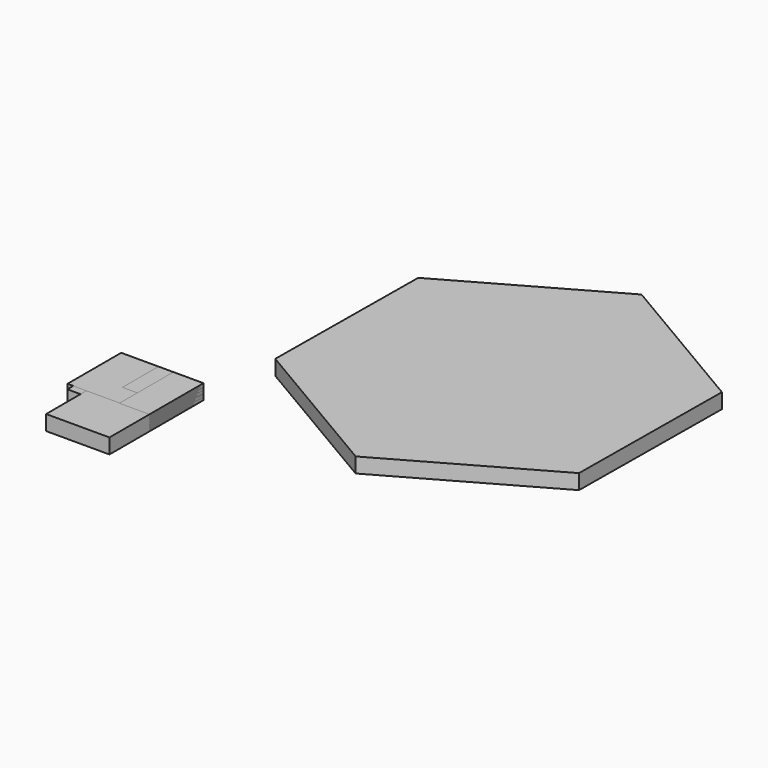
from build123d import *

# Parameters (mm, degrees)
SKETCH008_W  = 50.923298
SKETCH008_H  = 49.592381
PAD008_DEPTH = 10
SKETCH_W     = 34.929359
SKETCH_H     = 20.486658
PAD_DEPTH    = 10
SKETCH012_W  = 29.960587
SKETCH012_H  = 30.027189
PAD012_DEPTH = 10
SKETCH011_W  = 54.766457
SKETCH011_H  = 44.701084
PAD011_DEPTH = 10
SKETCH010_W  = 49.87516
SKETCH010_H  = 40.159164
PAD010_DEPTH = 10
SKETCH009_W  = 29.960587
SKETCH009_H  = 30.027189
PAD009_DEPTH = 10
SKETCH006_W  = 49.87516
SKETCH006_H  = 40.159164
PAD006_DEPTH = 10
SKETCH004_W  = 42.188831
SKETCH004_H  = 78.241425
PAD004_DEPTH = 10
SKETCH003_W  = 54.766457
SKETCH003_H  = 44.701084
PAD003_DEPTH = 10
SKETCH002_W  = 29.960587
SKETCH002_H  = 30.027189
PAD002_DEPTH = 10
SKETCH001_W  = 20.015697
SKETCH001_H  = 44.976456
PAD001_DEPTH = 10
PAD013_DEPTH = 10


with BuildPart() as body008:
    # Sketch008 → Pad008 (new body)
    with BuildSketch(Plane.XY):
        with Locations((25.461649, 24.79619)):
            Rectangle(SKETCH008_W, SKETCH008_H)
    extrude(amount=PAD008_DEPTH)


with BuildPart() as body008_1:
    # Body008 placement: moved
    add(body008.part.moved(Location((-50.923298, -49.592381, 0))))


with BuildPart() as body:
    # Sketch → Pad (new body)
    with BuildSketch(Plane.XY):
        with Locations((17.464679, 10.243329)):
            Rectangle(SKETCH_W, SKETCH_H)
    extrude(amount=PAD_DEPTH)


with BuildPart() as body_1:
    # Body placement: moved
    add(body.part.moved(Location((-34.929359, -20.486658, 0))))


with BuildPart() as body012:
    # Sketch012 → Pad012 (new body)
    with BuildSketch(Plane.XY):
        with Locations((14.980294, 15.013594)):
            Rectangle(SKETCH012_W, SKETCH012_H)
    extrude(amount=PAD012_DEPTH)


with BuildPart() as body012_1:
    # Body012 placement: moved
    add(body012.part.moved(Location((-29.960587, -30.027189, 0))))


with BuildPart() as body011:
    # Sketch011 → Pad011 (new body)
    with BuildSketch(Plane.XY):
        with Locations((27.383228, 22.350542)):
            Rectangle(SKETCH011_W, SKETCH011_H)
    extrude(amount=PAD011_DEPTH)


with BuildPart() as body011_1:
    # Body011 placement: moved
    add(body011.part.moved(Location((-54.766457, -44.701084, 0))))


with BuildPart() as body010:
    # Sketch010 → Pad010 (new body)
    with BuildSketch(Plane.XY):
        with Locations((24.93758, 20.079582)):
            Rectangle(SKETCH010_W, SKETCH010_H)
    extrude(amount=PAD010_DEPTH)


with BuildPart() as body010_1:
    # Body010 placement: moved
    add(body010.part.moved(Location((-49.87516, -40.159164, 0))))


with BuildPart() as body009:
    # Sketch009 → Pad009 (new body)
    with BuildSketch(Plane.XY):
        with Locations((14.980294, 15.013594)):
            Rectangle(SKETCH009_W, SKETCH009_H)
    extrude(amount=PAD009_DEPTH)


with BuildPart() as body009_1:
    # Body009 placement: moved
    add(body009.part.moved(Location((-29.960587, -30.027189, 0))))


with BuildPart() as body006:
    # Sketch006 → Pad006 (new body)
    with BuildSketch(Plane.XY):
        with Locations((24.93758, 20.079582)):
            Rectangle(SKETCH006_W, SKETCH006_H)
    extrude(amount=PAD006_DEPTH)


with BuildPart() as body006_1:
    # Body006 placement: moved
    add(body006.part.moved(Location((-49.87516, -40.159164, 0))))


with BuildPart() as body004:
    # Sketch004 → Pad004 (new body)
    with BuildSketch(Plane.XY):
        with Locations((21.094416, 39.120712)):
            Rectangle(SKETCH004_W, SKETCH004_H)
    extrude(amount=PAD004_DEPTH)


with BuildPart() as body004_1:
    # Body004 placement: moved
    add(body004.part.moved(Location((-42.188831, -78.241425, 0))))


with BuildPart() as body003:
    # Sketch003 → Pad003 (new body)
    with BuildSketch(Plane.XY):
        with Locations((27.383228, 22.350542)):
            Rectangle(SKETCH003_W, SKETCH003_H)
    extrude(amount=PAD003_DEPTH)


with BuildPart() as body003_1:
    # Body003 placement: moved
    add(body003.part.moved(Location((-54.766457, -44.701084, 0))))


with BuildPart() as body002:
    # Sketch002 → Pad002 (new body)
    with BuildSketch(Plane.XY):
        with Locations((14.980294, 15.013594)):
            Rectangle(SKETCH002_W, SKETCH002_H)
    extrude(amount=PAD002_DEPTH)


with BuildPart() as body002_1:
    # Body002 placement: moved
    add(body002.part.moved(Location((-29.960587, -30.027189, 0))))


with BuildPart() as body001:
    # Sketch001 → Pad001 (new body)
    with BuildSketch(Plane.XY):
        with Locations((10.007848, 22.488228)):
            Rectangle(SKETCH001_W, SKETCH001_H)
    extrude(amount=PAD001_DEPTH)


with BuildPart() as body001_1:
    # Body001 placement: moved
    add(body001.part.moved(Location((-20.015697, -44.976456, 0))))


with BuildPart() as board_body:
    # Sketch013 → Pad013 (new body)
    with BuildSketch(Plane.XY):
        Polygon((40.648041, 7.960721), (-60.654729, 67.690055), (-163.033235, 9.82395), (-164.108971, -107.771489), (-62.806201, -167.500823), (39.572305, -109.634718), align=None)
    extrude(amount=-PAD013_DEPTH)


with BuildPart() as board_body_1:
    # Body013 placement: moved
    add(board_body.part.moved(Location((164.108971, 167.500823, 0))))


solid = Compound([body008_1.part, body_1.part, body012_1.part, body011_1.part, body010_1.part, body009_1.part, body006_1.part, body004_1.part, body003_1.part, body002_1.part, body001_1.part, board_body_1.part])
